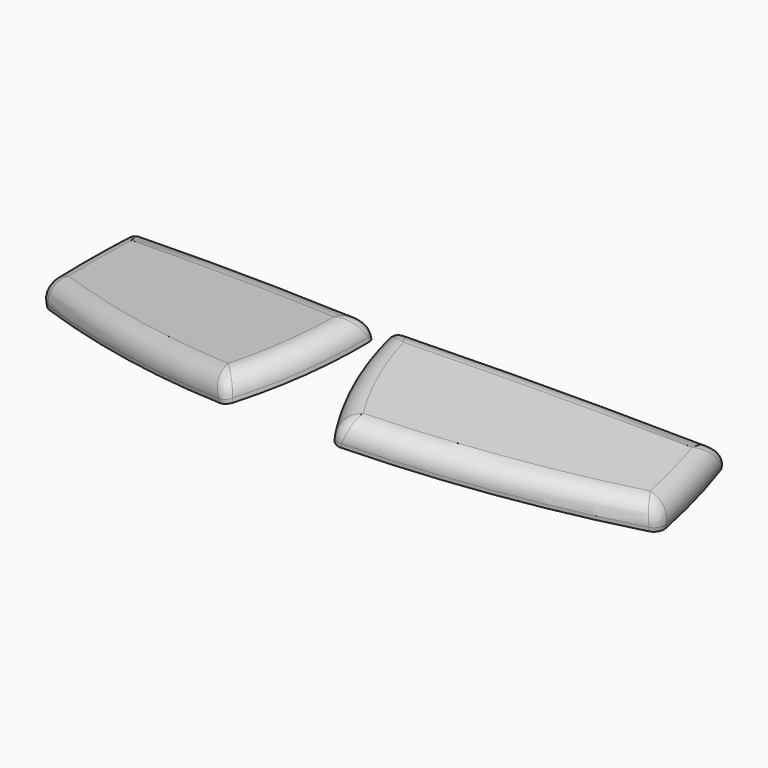
from build123d import *

# Parameters (mm, degrees)
EXTRUDE021_DEPTH                          = 15.24
EXTRUDE021_ONTO_SKETCH027_ROLL_ANGLE      = -5.84676
EXTRUDE021_ONTO_SKETCH027_PITCH_ANGLE     = -9.122532
EXTRUDE021_ONTO_SKETCH027_PLACEMENT_ANGLE = -179.069868
FILLET001_R                               = 12.7


with BuildPart() as right_palm_pad:
    # Sketch027 as drawn → Extrude021 (new)
    with BuildSketch(Plane.XY):
        with BuildLine():
            ThreePointArc((-181.132412, 66.517595), (-179.76001, 64.656925), (-177.471933, 64.324837))
            ThreePointArc((-177.471933, 64.324837), (-89.045434, 80.758573), (-1.118253, 99.682747))
            ThreePointArc((-1.118253, 99.682747), (0.963042, 101.084631), (1.571092, 103.519244))
            ThreePointArc((1.571092, 103.519244), (-7.632426, 143.135411), (-24.992902, 179.915288))
            ThreePointArc((-24.992902, 179.915288), (-27.776665, 182.317661), (-31.439126, 182.644955))
            ThreePointArc((-31.439126, 182.644955), (-110.04326, 160.580618), (-185.970821, 130.573114))
            ThreePointArc((-185.970821, 130.573114), (-189.579845, 127.295109), (-190.615925, 122.530982))
            ThreePointArc((-190.615925, 122.530982), (-186.885856, 94.353001), (-181.132412, 66.517595))
        make_face()
    extrude(amount=EXTRUDE021_DEPTH)


with BuildPart() as right_palm_pad_1:
    # Extrude021 onto Sketch027 roll: moved
    add(right_palm_pad.part.rotate(Axis((0, 0, 0), (1, 0, 0)), EXTRUDE021_ONTO_SKETCH027_ROLL_ANGLE))


with BuildPart() as right_palm_pad_2:
    # Extrude021 onto Sketch027 pitch: moved
    add(right_palm_pad_1.part.rotate(Axis((0, 0, 0), (0, 1, 0)), EXTRUDE021_ONTO_SKETCH027_PITCH_ANGLE))


with BuildPart() as right_palm_pad_3:
    # Extrude021 onto Sketch027 placement: moved
    add(right_palm_pad_2.part.moved(Location((7.61465, -4.744722, 46.934522))).rotate(Axis((7.61465, -4.744722, 46.934522), (0, 0, 1)), EXTRUDE021_ONTO_SKETCH027_PLACEMENT_ANGLE))

    # Fillet001
    fillet001_edges = [right_palm_pad_3.edges().sort_by_distance(p)[0] for p in [
        (187.506147, -67.705857, 26.900009),
        (97.950773, -85.179812, 39.662976),
        (9.092476, -106.845436, 51.889104),
        (17.578107, -148.54521, 46.296867),
        (37.464931, -187.205899, 39.162131),
        (118.680276, -164.260529, 28.305367),
        (197.200499, -129.869012, 19.042978),
        (194.540934, -97.137133, 22.783408),
    ]]
    fillet(fillet001_edges, radius=FILLET001_R)


with BuildPart() as left_palm_pad:
    # Part__Mirroring008: instance of Right Palm Pad
    add(right_palm_pad_3.part.mirror(Plane(origin=(0, 0, 0), x_dir=(0, -1, 0), z_dir=(1, 0, 0))))


with BuildPart() as palm_pads:
    # Fusion003 base: copy of Right Palm Pad
    add(right_palm_pad_3.part)

    # Fusion003: union Left Palm Pad
    add(left_palm_pad.part)


solid = palm_pads.part
